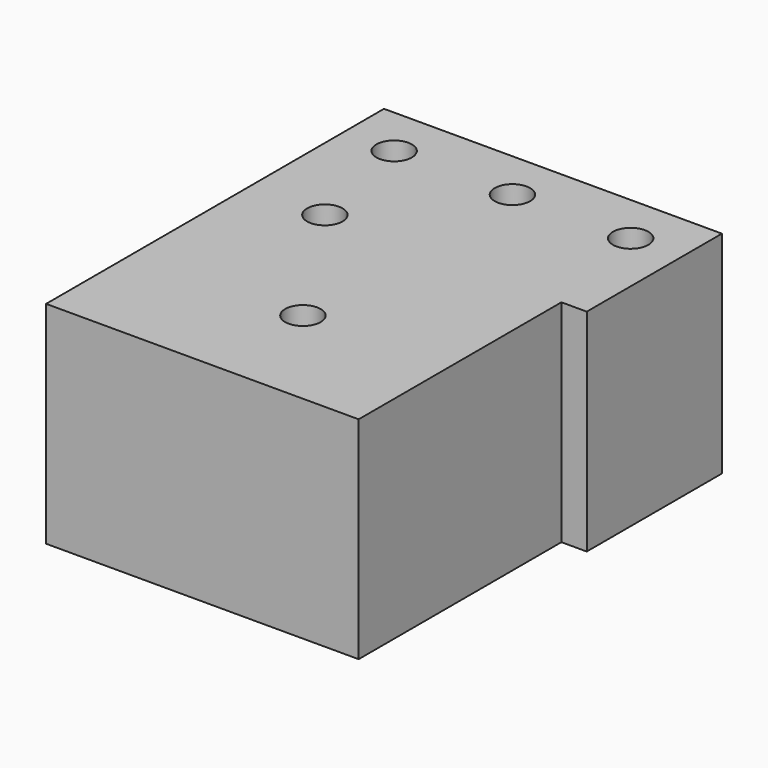
from build123d import *

# Parameters (mm, degrees)
PAD_DEPTH    = 25
SKETCH003_R  = 2.1
POCKET_DEPTH = 25.001


with BuildPart() as part:
    # Sketch → Pad (new body)
    with BuildSketch(Plane.XY):
        Polygon((17, -30), (-20, -30), (-20, 20), (20, 20), (20, 0), (17, 0), align=None)
    extrude(amount=PAD_DEPTH)

    # Sketch003 (on Face8 of Pad) → Pocket (cut, through all)
    with BuildSketch(Plane.XY.offset(25)):
        with Locations((0, -17)):
            Circle(SKETCH003_R)
        with Locations((-11, 0)):
            Circle(SKETCH003_R)
        with Locations((-14, 14)):
            Circle(SKETCH003_R)
        with Locations((14, 14)):
            Circle(SKETCH003_R)
        with Locations((0, 14)):
            Circle(SKETCH003_R)
    extrude(amount=-POCKET_DEPTH, mode=Mode.SUBTRACT)


solid = part.part
